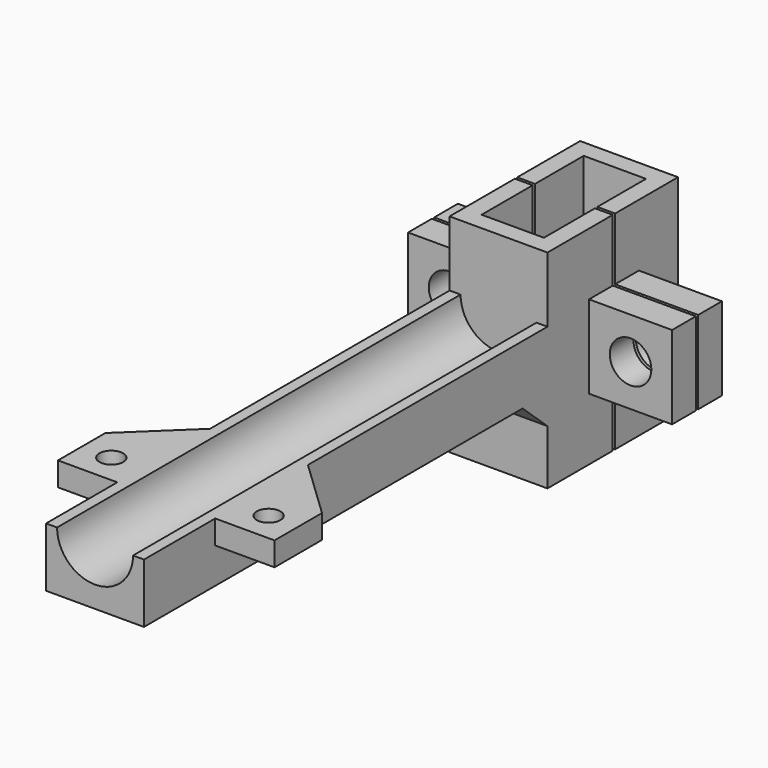
from build123d import *

# Parameters (mm, degrees)
F0_W      = 16.5
F0_H      = 27.5
F1_DEPTH  = 35
F2_W      = 10.5
F2_H      = 21.5
F3_DEPTH  = 35
F4_W      = 3
F4_H      = 0.5
F5_DEPTH  = 35
F6_W      = 5
F6_H      = 14
F7_DEPTH  = 14
F8_R      = 3.5
F9_DEPTH  = 5
F12_W     = 5
F12_H     = 14
F13_DEPTH = 14
F14_R     = 3.5
F15_DEPTH = 255
F17_W     = 16.5
F17_H     = 14
F18_DEPTH = 85
F20_DEPTH = 85
F21_W     = 10
F21_H     = 4
F22_DEPTH = 10
F24_DEPTH = 4
F25_R     = 2
F26_DEPTH = 4
F29_DEPTH = 16.5


with BuildPart() as f1:
    # F0 (on Top) → F1 (new body)
    with BuildSketch(Plane.XY):
        with Locations((-8.25, -13.75)):
            Rectangle(F0_W, F0_H)
    extrude(amount=F1_DEPTH)

    # F2 (on face) → F3 (cut)
    with BuildSketch(Plane.XY.offset(35)):
        with Locations((-8.25, -13.75)):
            Rectangle(F2_W, F2_H)
    extrude(amount=-F3_DEPTH, mode=Mode.SUBTRACT)

    # F4 (on face) → F5 (cut)
    with BuildSketch(Plane.XY.offset(35)):
        with Locations((-1.5, -13.5)):
            Rectangle(F4_W, F4_H)
        with Locations((-15, -13.5)):
            Rectangle(F4_W, F4_H)
    extrude(amount=-F5_DEPTH, mode=Mode.SUBTRACT)

    # F6 (on face) → F7 (join)
    with BuildSketch(Plane(origin=(-16.5, 0, 0), x_dir=(0, -1, 0), z_dir=(-1, 0, 0))):
        with Locations((16.25, 17.5)):
            Rectangle(F6_W, F6_H)
    extrude(amount=F7_DEPTH)

    # F8 (on face) → F9 (cut)
    with BuildSketch(Plane.XZ.offset(18.75)):
        with Locations((-23.5, 17.5)):
            Circle(F8_R)
    extrude(amount=-F9_DEPTH, mode=Mode.SUBTRACT)

    # F11: F1 across plane


with BuildPart() as f1_1:
    add(f1.part)
    add(f1.part.mirror(Plane(origin=(-8.25, -6.625, 17.5), x_dir=(0, -1, 0), z_dir=(-1, 0, 0))))

    # F12 (on face) → F13 (join)
    with BuildSketch(Plane(origin=(-16.5, 0, 0), x_dir=(0, -1, 0), z_dir=(-1, 0, 0))):
        with Locations((10.75, 17.5)):
            Rectangle(F12_W, F12_H)
    extrude(amount=F13_DEPTH)

    # F14 (on face) → F15 (cut)
    with BuildSketch(Plane(origin=(0, -8.25, 0), x_dir=(-1, 0, 0), z_dir=(0, 1, 0))):
        with Locations((23.5, 17.5)):
            Circle(F14_R)
    extrude(amount=-F15_DEPTH, mode=Mode.SUBTRACT)

    # F16: F1 across plane


with BuildPart() as f1_2:
    add(f1_1.part)
    add(f1_1.part.mirror(Plane(origin=(-8.25, -6.625, 17.5), x_dir=(0, -1, 0), z_dir=(-1, 0, 0))))

    # F17 (on face) → F18 (join)
    with BuildSketch(Plane.XZ.offset(27.5)):
        with Locations((-8.25, 21)):
            Rectangle(F17_W, F17_H)
    extrude(amount=F18_DEPTH)

    # F19 (on face) → F20 (cut)
    with BuildSketch(Plane.XZ.offset(112.5)):
        with BuildLine():
            Line((-16.5, 24), (-14.65, 24))
            ThreePointArc((-14.65, 24), (-8.25, 17.6), (-1.85, 24))
            Line((-1.85, 24), (0, 24))
            Line((0, 24), (0, 28))
            Line((0, 28), (-16.5, 28))
            Line((-16.5, 28), (-16.5, 24))
        make_face()
    extrude(amount=-F20_DEPTH, mode=Mode.SUBTRACT)

    # F21 (on face) → F22 (join)
    with BuildSketch(Plane(origin=(-16.5, 0, 0), x_dir=(0, -1, 0), z_dir=(-1, 0, 0))):
        with Locations((92.5, 22)):
            Rectangle(F21_W, F21_H)
    extrude(amount=F22_DEPTH)

    # F23 (on face) → F24 (join)
    with BuildSketch(Plane.XY.offset(24)):
        Polygon((-16.5, -77.965461), (-26.5, -87.5), (-16.5, -87.5), align=None)
    extrude(amount=-F24_DEPTH)

    # F25 (on face) → F26 (cut)
    with BuildSketch(Plane.XY.offset(24)):
        with Locations((-21.5, -92.5)):
            Circle(F25_R)
    extrude(amount=-F26_DEPTH, mode=Mode.SUBTRACT)

    # F27: F1 across plane


with BuildPart() as f1_3:
    add(f1_2.part)
    add(f1_2.part.mirror(Plane(origin=(-8.25, -6.625, 17.5), x_dir=(0, -1, 0), z_dir=(-1, 0, 0))))

    # F28 (on face) → F29 (join)
    with BuildSketch(Plane(origin=(-16.5, 0, 0), x_dir=(0, -1, 0), z_dir=(-1, 0, 0))):
        Polygon((27.5, 14), (27.5, 9.245562), (32.74994, 14), align=None)
    extrude(amount=-F29_DEPTH)


solid = f1_3.part
